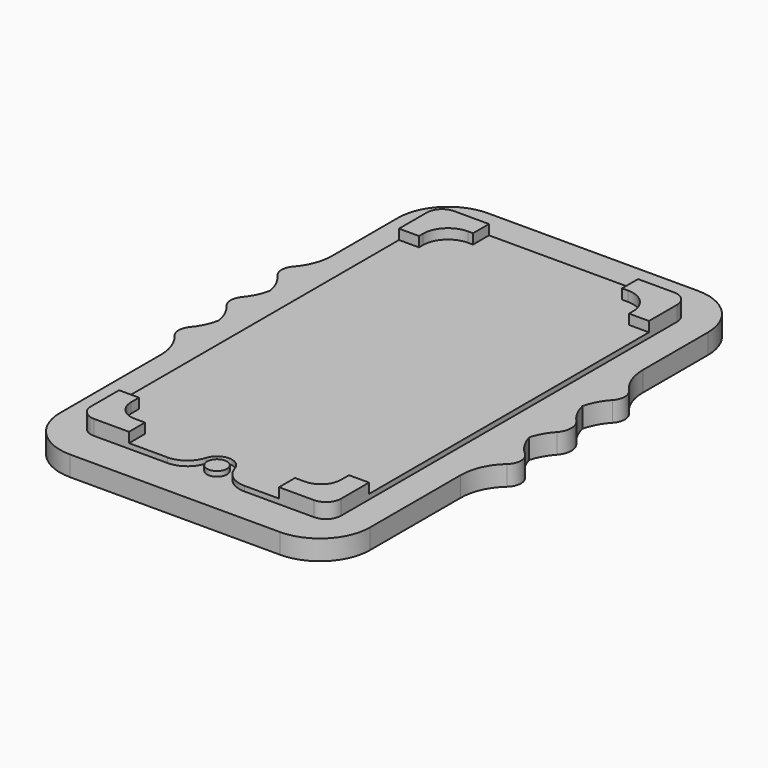
from build123d import *

# Parameters (mm, degrees)
F0_R     = 2
F1_DEPTH = 4
F2_DEPTH = 5
F3_DEPTH = 7
F4_DEPTH = 5


with BuildPart() as f1:
    # F0 (on Top) → F1 (new body)
    with BuildSketch(Plane.XY):
        with BuildLine():
            Line((-15.1260387235, -59.4521127641), (26.8739612765, -59.4521127641))
            ThreePointArc((26.8739612765, -59.4521127641), (33.9450290884, -56.523180576), (36.8739612765, -49.4521127641))
            Line((36.8739612765, -49.4521127641), (36.8739612765, -26.7764899186))
            ThreePointArc((36.8739612765, -26.7764899186), (37.7418043208, -22.7017249762), (40.1947031436, -19.3342113163))
            ThreePointArc((40.1947031436, -19.3342113163), (41.1909257037, -17.1015277356), (40.1947031436, -14.8688441549))
            ThreePointArc((40.1947031436, -14.8688441549), (38.3782162175, -12.7012518837), (37.2412258633, -10.1117859269))
            ThreePointArc((37.2412258633, -10.1117859269), (38.1325390814, -7.9403059804), (39.5054840686, -6.0364187796))
            ThreePointArc((39.5054840686, -6.0364187796), (40.4532524775, -3.6015277356), (39.5054840686, -1.1666366915))
            ThreePointArc((39.5054840686, -1.1666366915), (38.0314315628, 0.9238685756), (37.135949584, 3.3199393357))
            ThreePointArc((37.135949584, 3.3199393357), (38.0470763022, 5.745513105), (39.5508012398, 7.8555773976))
            ThreePointArc((39.5508012398, 7.8555773976), (40.3538532288, 9.8984722644), (39.5508012398, 11.9413671312))
            ThreePointArc((39.5508012398, 11.9413671312), (37.5672002834, 15.092574421), (36.8739612765, 18.7510166874))
            Line((36.8739612765, 18.7510166874), (36.8739612765, 35.0460018218))
            ThreePointArc((36.8739612765, 35.0460018218), (33.9450290884, 42.1170696336), (26.8739612765, 45.0460018218))
            Line((26.8739612765, 45.0460018218), (-15.1260387235, 45.0460018218))
            ThreePointArc((-15.1260387235, 45.0460018218), (-22.1971065353, 42.1170696336), (-25.1260387235, 35.0460018218))
            Line((-25.1260387235, 35.0460018218), (-25.1260387235, 19.9840717389))
            Line((-25.1260387235, 19.9840717389), (-25.1260387235, 18.5548229328))
            ThreePointArc((-25.1260387235, 18.5548229328), (-25.7654117274, 15.0364906233), (-27.6017711715, 11.9680636533))
            ThreePointArc((-27.6017711715, 11.9680636533), (-28.3444909059, 9.9920358694), (-27.6017711715, 8.0160080856))
            ThreePointArc((-27.6017711715, 8.0160080856), (-26.1525927882, 5.8425546017), (-25.3157639737, 3.3679363345))
            ThreePointArc((-25.3157639737, 3.3679363345), (-26.0961993133, 1.0098808841), (-27.4337310312, -1.0830868009))
            ThreePointArc((-27.4337310312, -1.0830868009), (-28.1260387235, -3), (-27.4337310312, -4.9169131991))
            ThreePointArc((-27.4337310312, -4.9169131991), (-26.0675201626, -7.0706775127), (-25.2905870197, -9.5))
            ThreePointArc((-25.2905870197, -9.5), (-26.0675201626, -11.9293224873), (-27.4337310312, -14.0830868009))
            ThreePointArc((-27.4337310312, -14.0830868009), (-28.1260387235, -16), (-27.4337310312, -17.9169131991))
            ThreePointArc((-27.4337310312, -17.9169131991), (-25.7206392922, -20.9097927605), (-25.1260387235, -24.3066238629))
            Line((-25.1260387235, -24.3066238629), (-25.1260387235, -49.4521127641))
            ThreePointArc((-25.1260387235, -49.4521127641), (-22.1971065353, -56.523180576), (-15.1260387235, -59.4521127641))
        make_face()
        with Locations((6.253258194, -49.4241423296)):
            Circle(F0_R, mode=Mode.SUBTRACT)
        with BuildLine():
            Line((-16.1260387235, 37.7969445288), (-9.1260387235, 37.7969445288))
            Line((-9.1260387235, 37.7969445288), (20.6900215282, 37.7969445288))
            Line((20.6900215282, 37.7969445288), (27.8739612765, 37.7969445288))
            ThreePointArc((27.8739612765, 37.7969445288), (29.9952816201, 36.9182648724), (30.8739612765, 34.7969445288))
            Line((30.8739612765, 34.7969445288), (30.8739612765, 27.7969445288))
            Line((30.8739612765, 27.7969445288), (30.8739612765, -42.2030554712))
            Line((30.8739612765, -42.2030554712), (30.8739612765, -49.2030554712))
            ThreePointArc((30.8739612765, -49.2030554712), (29.9952816201, -51.3243758147), (27.8739612765, -52.2030554712))
            Line((27.8739612765, -52.2030554712), (20.8739612765, -52.2030554712))
            Line((20.8739612765, -52.2030554712), (13.9387492757, -52.2030554712))
            ThreePointArc((13.9387492757, -52.2030554712), (10.9338280149, -51.199359791), (9.1353173496, -48.5912347577))
            ThreePointArc((9.1353173496, -48.5912347577), (6.253258194, -46.4241423296), (3.3711990383, -48.5912347577))
            ThreePointArc((3.3711990383, -48.5912347577), (1.572688373, -51.199359791), (-1.4322328878, -52.2030554712))
            Line((-1.4322328878, -52.2030554712), (-9.1260387235, -52.2030554712))
            Line((-9.1260387235, -52.2030554712), (-16.1260387235, -52.2030554712))
            ThreePointArc((-16.1260387235, -52.2030554712), (-18.247359067, -51.3243758147), (-19.1260387235, -49.2030554712))
            Line((-19.1260387235, -49.2030554712), (-19.1260387235, -42.2030554712))
            Line((-19.1260387235, -42.2030554712), (-19.1260387235, 27.7969445288))
            Line((-19.1260387235, 27.7969445288), (-19.1260387235, 34.7969445288))
            ThreePointArc((-19.1260387235, 34.7969445288), (-18.247359067, 36.9182648724), (-16.1260387235, 37.7969445288))
        make_face(mode=Mode.SUBTRACT)
        with BuildLine():
            ThreePointArc((36.8739612765, -7.4265655526), (36.9662028486, -8.7816754868), (37.2412258633, -10.1117859269))
            ThreePointArc((37.2412258633, -10.1117859269), (36.9662028486, -11.441896367), (36.8739612765, -12.7970063012))
            Line((36.8739612765, -12.7970063012), (36.8739612765, -7.4265655526))
        make_face(mode=Mode.SUBTRACT)
        with BuildLine():
            ThreePointArc((36.8739612765, -12.7970063012), (36.9662028486, -11.441896367), (37.2412258633, -10.1117859269))
            ThreePointArc((37.2412258633, -10.1117859269), (36.9662028486, -8.7816754868), (36.8739612765, -7.4265655526))
            Line((36.8739612765, -7.4265655526), (36.8739612765, -12.7970063012))
        make_face()
    extrude(amount=F1_DEPTH)

    # F0 (on Top) → F2 (join)
    with BuildSketch(Plane.XY):
        with BuildLine():
            Line((20.6900215282, 37.7969445288), (-9.1260387235, 37.7969445288))
            Line((-9.1260387235, 37.7969445288), (-9.1260387235, 33.7969445288))
            Line((-9.1260387235, 33.7969445288), (-10.1260387235, 33.7969445288))
            ThreePointArc((-10.1260387235, 33.7969445288), (-13.6615726294, 32.3324784348), (-15.1260387235, 28.7969445288))
            Line((-15.1260387235, 28.7969445288), (-15.1260387235, 27.7969445288))
            Line((-15.1260387235, 27.7969445288), (-19.1260387235, 27.7969445288))
            Line((-19.1260387235, 27.7969445288), (-19.1260387235, -42.2030554712))
            Line((-19.1260387235, -42.2030554712), (-15.1260387235, -42.2030554712))
            Line((-15.1260387235, -42.2030554712), (-15.1260387235, -44.2030554712))
            ThreePointArc((-15.1260387235, -44.2030554712), (-13.9544658482, -47.0314825959), (-11.1260387235, -48.2030554712))
            Line((-11.1260387235, -48.2030554712), (-9.1260387235, -48.2030554712))
            Line((-9.1260387235, -48.2030554712), (-9.1260387235, -52.2030554712))
            Line((-9.1260387235, -52.2030554712), (-1.4322328878, -52.2030554712))
            ThreePointArc((-1.4322328878, -52.2030554712), (1.572688373, -51.199359791), (3.3711990383, -48.5912347577))
            ThreePointArc((3.3711990383, -48.5912347577), (6.253258194, -46.4241423296), (9.1353173496, -48.5912347577))
            ThreePointArc((9.1353173496, -48.5912347577), (10.9338280149, -51.199359791), (13.9387492757, -52.2030554712))
            Line((13.9387492757, -52.2030554712), (20.8739612765, -52.2030554712))
            Line((20.8739612765, -52.2030554712), (20.8739612765, -48.2030554712))
            Line((20.8739612765, -48.2030554712), (22.8739612765, -48.2030554712))
            ThreePointArc((22.8739612765, -48.2030554712), (25.7023884013, -47.0314825959), (26.8739612765, -44.2030554712))
            Line((26.8739612765, -44.2030554712), (26.8739612765, -42.2030554712))
            Line((26.8739612765, -42.2030554712), (30.8739612765, -42.2030554712))
            Line((30.8739612765, -42.2030554712), (30.8739612765, 27.7969445288))
            Line((30.8739612765, 27.7969445288), (26.8739612765, 27.7969445288))
            Line((26.8739612765, 27.7969445288), (26.8739612765, 28.7969445288))
            ThreePointArc((26.8739612765, 28.7969445288), (25.4094951825, 32.3324784348), (21.8739612765, 33.7969445288))
            Line((21.8739612765, 33.7969445288), (20.6900215282, 33.7969445288))
            Line((20.6900215282, 33.7969445288), (20.6900215282, 37.7969445288))
        make_face()
    extrude(amount=F2_DEPTH)

    # F0 (on Top) → F3 (join)
    with BuildSketch(Plane.XY):
        with BuildLine():
            Line((27.8739612765, 37.7969445288), (20.6900215282, 37.7969445288))
            Line((20.6900215282, 37.7969445288), (20.6900215282, 33.7969445288))
            Line((20.6900215282, 33.7969445288), (21.8739612765, 33.7969445288))
            ThreePointArc((21.8739612765, 33.7969445288), (25.4094951825, 32.3324784348), (26.8739612765, 28.7969445288))
            Line((26.8739612765, 28.7969445288), (26.8739612765, 27.7969445288))
            Line((26.8739612765, 27.7969445288), (30.8739612765, 27.7969445288))
            Line((30.8739612765, 27.7969445288), (30.8739612765, 34.7969445288))
            ThreePointArc((30.8739612765, 34.7969445288), (29.9952816201, 36.9182648724), (27.8739612765, 37.7969445288))
        make_face()
        with BuildLine():
            Line((-9.1260387235, 33.7969445288), (-9.1260387235, 37.7969445288))
            Line((-9.1260387235, 37.7969445288), (-16.1260387235, 37.7969445288))
            ThreePointArc((-16.1260387235, 37.7969445288), (-18.247359067, 36.9182648724), (-19.1260387235, 34.7969445288))
            Line((-19.1260387235, 34.7969445288), (-19.1260387235, 27.7969445288))
            Line((-19.1260387235, 27.7969445288), (-15.1260387235, 27.7969445288))
            Line((-15.1260387235, 27.7969445288), (-15.1260387235, 28.7969445288))
            ThreePointArc((-15.1260387235, 28.7969445288), (-13.6615726294, 32.3324784348), (-10.1260387235, 33.7969445288))
            Line((-10.1260387235, 33.7969445288), (-9.1260387235, 33.7969445288))
        make_face()
        with BuildLine():
            Line((30.8739612765, -49.2030554712), (30.8739612765, -42.2030554712))
            Line((30.8739612765, -42.2030554712), (26.8739612765, -42.2030554712))
            Line((26.8739612765, -42.2030554712), (26.8739612765, -44.2030554712))
            ThreePointArc((26.8739612765, -44.2030554712), (25.7023884013, -47.0314825959), (22.8739612765, -48.2030554712))
            Line((22.8739612765, -48.2030554712), (20.8739612765, -48.2030554712))
            Line((20.8739612765, -48.2030554712), (20.8739612765, -52.2030554712))
            Line((20.8739612765, -52.2030554712), (27.8739612765, -52.2030554712))
            ThreePointArc((27.8739612765, -52.2030554712), (29.9952816201, -51.3243758147), (30.8739612765, -49.2030554712))
        make_face()
        with BuildLine():
            Line((-15.1260387235, -42.2030554712), (-19.1260387235, -42.2030554712))
            Line((-19.1260387235, -42.2030554712), (-19.1260387235, -49.2030554712))
            ThreePointArc((-19.1260387235, -49.2030554712), (-18.247359067, -51.3243758147), (-16.1260387235, -52.2030554712))
            Line((-16.1260387235, -52.2030554712), (-9.1260387235, -52.2030554712))
            Line((-9.1260387235, -52.2030554712), (-9.1260387235, -48.2030554712))
            Line((-9.1260387235, -48.2030554712), (-11.1260387235, -48.2030554712))
            ThreePointArc((-11.1260387235, -48.2030554712), (-13.9544658482, -47.0314825959), (-15.1260387235, -44.2030554712))
            Line((-15.1260387235, -44.2030554712), (-15.1260387235, -42.2030554712))
        make_face()
    extrude(amount=F3_DEPTH)

    # F0 (on Top) → F4 (join)
    with BuildSketch(Plane.XY):
        with Locations((6.253258194, -49.4241423296)):
            Circle(F0_R)
    extrude(amount=F4_DEPTH)


solid = f1.part
